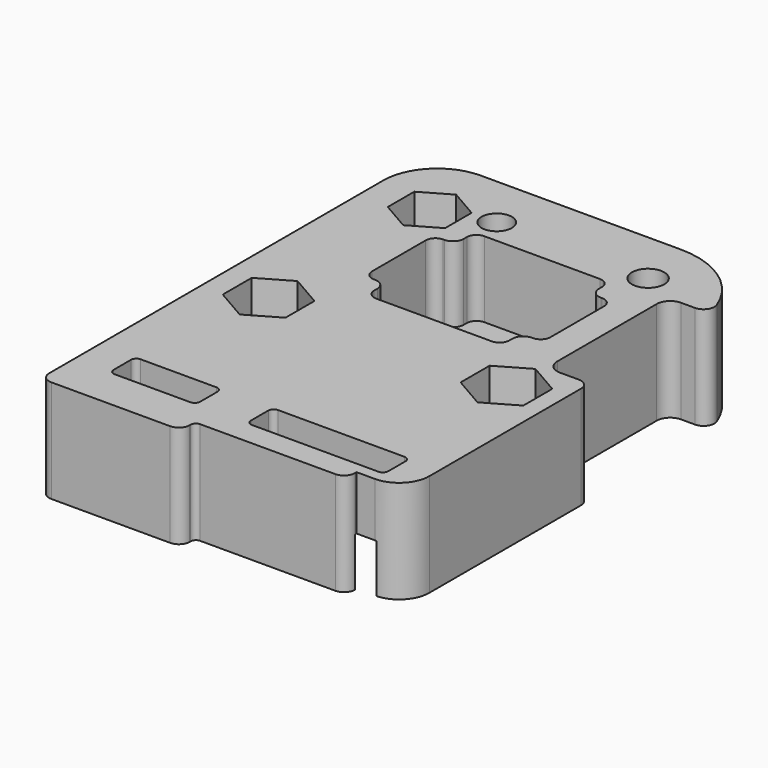
from build123d import *

# Parameters (mm, degrees)
SKETCH_R        = 1.55
SKETCH_R_2      = 1.5
SKETCH_R_3      = 3.65
SKETCH_R_4      = 1.4
SKETCH_W        = 8
SKETCH_H        = 3
SKETCH_W_2      = 12.7
PAD_DEPTH       = 9.5
POCKET_DEPTH    = 7
POCKET001_DEPTH = 10
POCKET002_DEPTH = 4.5
POCKET003_DEPTH = 4.5
SKETCH005_W     = 25.7
SKETCH005_H     = 13
POCKET004_DEPTH = 3
POCKET006_DEPTH = 2.5
SKETCH006_R     = 1.8
POCKET007_DEPTH = 1.5
FILLET_R        = 1
FILLET001_R     = 0.5
POCKET008_DEPTH = 2.2


with BuildPart() as part:
    # Sketch → Pad (new body)
    with BuildSketch(Plane.XY):
        with BuildLine():
            Line((-11, 13.5), (7.5, 13.5))
            ThreePointArc((15.5, 5.5), (13.156854, 11.156854), (7.5, 13.5))
            Line((15.5, 5.5), (15.5, -25.53))
            ThreePointArc((12.7, -28.33), (14.679899, -27.509899), (15.5, -25.53))
            Line((11, -28.33), (12.7, -28.33))
            Line((11, -29.53), (11, -28.33))
            Line((-3, -29.53), (11, -29.53))
            Line((-3, -31.13), (-3, -29.53))
            Line((-3, -31.13), (-16, -31.13))
            Line((-16, -31.13), (-16, 8.5))
            ThreePointArc((-11, 13.5), (-14.535534, 12.035534), (-16, 8.5))
        make_face()
        with Locations((-11, -11)):
            Circle(SKETCH_R, mode=Mode.SUBTRACT)
        with Locations((11, -11)):
            Circle(SKETCH_R, mode=Mode.SUBTRACT)
        with Locations((8.5, 8.5)):
            Circle(SKETCH_R_2, mode=Mode.SUBTRACT)
        with Locations((-10.5, 7)):
            Circle(SKETCH_R_2, mode=Mode.SUBTRACT)
        with Locations((0.5, 0)):
            Circle(SKETCH_R_3, mode=Mode.SUBTRACT)
        with Locations((-5.5, 8.5)):
            Circle(SKETCH_R_4, mode=Mode.SUBTRACT)
        with Locations((-8.7, -25.79)):
            Rectangle(SKETCH_W, SKETCH_H, mode=Mode.SUBTRACT)
        with Locations((6.35, -25.79)):
            Rectangle(SKETCH_W_2, SKETCH_H, mode=Mode.SUBTRACT)
    extrude(amount=PAD_DEPTH)

    # Sketch002 (on Face27 of Pad) → Pocket (cut)
    with BuildSketch(Plane.XY.offset(9.5)):
        with BuildLine():
            Line((7.85, -4), (7.75, -4))
            ThreePointArc((7.75, -4), (7.042893, -4.292893), (6.75, -5))
            Line((6.75, -5), (6.75, -5.35))
            ThreePointArc((5.85, -6.25), (6.486396, -5.986396), (6.75, -5.35))
            Line((5.85, -6.25), (-4.85, -6.25))
            ThreePointArc((-5.75, -5.35), (-5.486396, -5.986396), (-4.85, -6.25))
            Line((-5.75, -5.35), (-5.75, -5))
            ThreePointArc((-5.75, -5), (-6.042893, -4.292893), (-6.75, -4))
            Line((-6.75, -4), (-6.85, -4))
            ThreePointArc((-7.75, -3.1), (-7.486396, -3.736396), (-6.85, -4))
            Line((-7.75, -3.1), (-7.75, 3.1))
            ThreePointArc((-6.85, 4), (-7.486396, 3.736396), (-7.75, 3.1))
            Line((-6.85, 4), (-6.75, 4))
            ThreePointArc((-6.75, 4), (-6.042893, 4.292893), (-5.75, 5))
            Line((-5.75, 5), (-5.75, 5.35))
            ThreePointArc((-4.85, 6.25), (-5.486396, 5.986396), (-5.75, 5.35))
            Line((-4.85, 6.25), (5.85, 6.25))
            ThreePointArc((6.75, 5.35), (6.486396, 5.986396), (5.85, 6.25))
            Line((6.75, 5.35), (6.75, 5))
            ThreePointArc((6.75, 5), (7.042893, 4.292893), (7.75, 4))
            Line((7.75, 4), (7.85, 4))
            ThreePointArc((8.75, 3.1), (8.486396, 3.736396), (7.85, 4))
            Line((8.75, 3.1), (8.75, -3.1))
            ThreePointArc((7.85, -4), (8.486396, -3.736396), (8.75, -3.1))
        make_face()
    extrude(amount=-POCKET_DEPTH, mode=Mode.SUBTRACT)

    # Sketch007 (on Face5 of Pocket) → Pocket001 (cut)
    with BuildSketch(Plane.XY.offset(9.5)):
        with BuildLine():
            Line((12.75, 7), (16.5, 7))
            Line((16.5, 7), (16.5, -7))
            Line((16.5, -7), (12.75, -7))
            ThreePointArc((11.5, -5.75), (11.866117, -6.633883), (12.75, -7))
            Line((11.5, -5.75), (11.5, 5.75))
            ThreePointArc((12.75, 7), (11.866117, 6.633883), (11.5, 5.75))
        make_face()
    extrude(amount=-POCKET001_DEPTH, mode=Mode.SUBTRACT)

    # Sketch008 (on Face5 of Pocket001) → Pocket002 (cut)
    with BuildSketch(Plane.XY.offset(9.5)):
        Polygon((-8.1, -12.674316), (-8.1, -9.325684), (-11, -7.651368), (-13.9, -9.325684), (-13.9, -12.674316), (-11, -14.348632), align=None)
        Polygon((13.9, -12.674316), (13.9, -9.325684), (11, -7.651368), (8.1, -9.325684), (8.1, -12.674316), (11, -14.348632), align=None)
    extrude(amount=-POCKET002_DEPTH, mode=Mode.SUBTRACT)

    # Sketch009 (on Face5 of Pocket002) → Pocket003 (cut)
    with BuildSketch(Plane.XY.offset(9.5)):
        Polygon((-7.85, 5.470022), (-7.85, 8.529978), (-10.5, 10.059956), (-13.15, 8.529978), (-13.15, 5.470022), (-10.5, 3.940044), align=None)
    extrude(amount=-POCKET003_DEPTH, mode=Mode.SUBTRACT)

    # Sketch005 (on Face4 of Pocket003) → Pocket004 (cut)
    with BuildSketch(Plane(origin=(0, 0, 0), x_dir=(1, 0, 0), z_dir=(0, 0, -1))):
        with Locations((0, 22)):
            Rectangle(SKETCH005_W, SKETCH005_H)
    extrude(amount=-POCKET004_DEPTH, mode=Mode.SUBTRACT)

    # Sketch010 → Pocket006 (cut)
    with BuildSketch(Plane(origin=(0, 0, 0), x_dir=(1, 0, 0), z_dir=(0, 0, -1))):
        with BuildLine():
            Line((-16, -10), (-11, -10))
            ThreePointArc((-10, -11), (-10.292893, -10.292893), (-11, -10))
            Line((-10, -11), (-10, -14))
            Line((-10, -14), (-16, -14))
            Line((-16, -14), (-16, -10))
        make_face()
    extrude(amount=-POCKET006_DEPTH, mode=Mode.SUBTRACT)

    # Sketch006 (on Face83 of Pocket006) → Pocket007 (cut)
    with BuildSketch(Plane(origin=(0, 0, 3), x_dir=(1, 0, 0), z_dir=(0, 0, -1))):
        with Locations((0, 22)):
            Circle(SKETCH006_R)
        with BuildLine():
            Line((-12.85, 20.5), (-3.5, 20.5))
            ThreePointArc((-1.5, 18.5), (-2.085786, 19.914214), (-3.5, 20.5))
            Line((-1.5, 18.5), (-1.5, 15.5))
            Line((-1.5, 15.5), (-12.85, 15.5))
            Line((-12.85, 15.5), (-12.85, 20.5))
        make_face()
        with BuildLine():
            Line((1.5, 15.5), (12.85, 15.5))
            Line((12.85, 15.5), (12.85, 20.5))
            Line((12.85, 20.5), (3.5, 20.5))
            ThreePointArc((3.5, 20.5), (2.085786, 19.914214), (1.5, 18.5))
            Line((1.5, 18.5), (1.5, 15.5))
        make_face()
        with BuildLine():
            Line((-12.85, 23.5), (-3.5, 23.5))
            ThreePointArc((-3.5, 23.5), (-2.085786, 24.085786), (-1.5, 25.5))
            Line((-1.5, 25.5), (-1.5, 28.5))
            Line((-1.5, 28.5), (-12.85, 28.5))
            Line((-12.85, 28.5), (-12.85, 23.5))
        make_face()
        with BuildLine():
            Line((1.5, 28.5), (12.85, 28.5))
            Line((12.85, 28.5), (12.85, 23.5))
            Line((12.85, 23.5), (3.5, 23.5))
            ThreePointArc((1.5, 25.5), (2.085786, 24.085786), (3.5, 23.5))
            Line((1.5, 25.5), (1.5, 28.5))
        make_face()
    extrude(amount=-POCKET007_DEPTH, mode=Mode.SUBTRACT)

    # Fillet
    fillet_edges = [part.edges().sort_by_distance(p)[0] for p in [
        (15.358117, 7, 4.75),
        (15.5, -7, 4.75),
        (11, -29.53, 4.75),
        (-3, -31.13, 4.75),
        (-16, -31.13, 4.75),
        (-15.769696, 10, 1.25),
        (-10, 13.5, 1.25),
    ]]
    fillet(fillet_edges, radius=FILLET_R)

    # Fillet001
    fillet001_edges = [part.edges().sort_by_distance(p)[0] for p in [
        (-3, -29.53, 4.75),
        (-12.85, -15.5, 1.5),
        (-12.85, -15.5, 3.75),
        (1.5, -15.5, 3.75),
        (-12.85, -23.5, 3.75),
        (-12.85, -28.5, 3.75),
        (-12.85, -28.5, 1.5),
        (-12.85, -20.5, 3.75),
        (-12.7, -27.29, 7),
        (-1.5, -15.5, 3.75),
        (-4.7, -24.29, 7),
        (-4.7, -27.29, 7),
        (-12.7, -24.29, 7),
        (-1.5, -28.5, 3.75),
        (1.5, -28.5, 3.75),
        (1.5, -27.29, 3.75),
        (0, -27.29, 6.25),
        (0, -24.29, 6.25),
        (1.907549, -24.29, 3.75),
        (12.85, -20.5, 3.75),
        (12.7, -27.29, 7),
        (12.85, -23.5, 3.75),
        (12.85, -15.5, 3.75),
        (12.85, -15.5, 1.5),
        (12.7, -24.29, 7),
        (-1.8, -22, 4.5),
    ]]
    fillet(fillet001_edges, radius=FILLET001_R)

    # Sketch011 (on Face1 of Fillet001) → Pocket008 (cut)
    with BuildSketch(Plane(origin=(0, 0, 0), x_dir=(1, 0, 0), z_dir=(0, 0, -1))):
        Polygon((-2.85, -10.029978), (-2.85, -6.970022), (-5.5, -5.440044), (-8.15, -6.970022), (-8.15, -10.029978), (-5.5, -11.559956), align=None)
    extrude(amount=-POCKET008_DEPTH, mode=Mode.SUBTRACT)


solid = part.part
